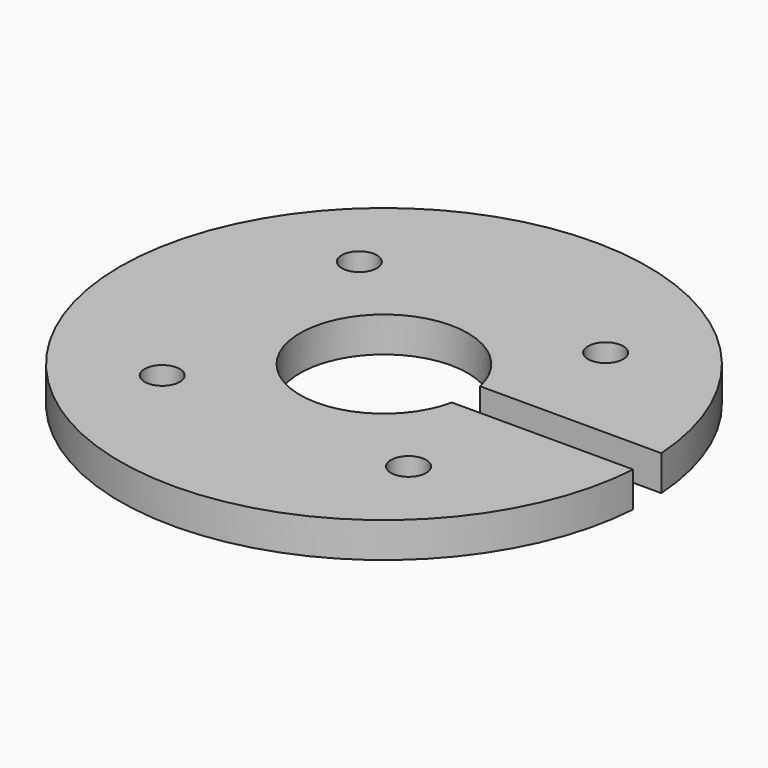
from build123d import *

# Parameters (mm, degrees)
SKETCH_R        = 45
SKETCH_R_2      = 14.3
PAD_DEPTH       = 6
SKETCH001_R     = 3
POCKET_DEPTH    = 10
SKETCH002_W     = 50
SKETCH002_H     = 6
POCKET001_DEPTH = 10


with BuildPart() as part:
    # Sketch → Pad (new body)
    with BuildSketch(Plane.XY):
        Circle(SKETCH_R)
        Circle(SKETCH_R_2, mode=Mode.SUBTRACT)
    extrude(amount=PAD_DEPTH)

    # Sketch001 → Pocket (cut)
    with BuildSketch(Plane.XY.offset(6)):
        with Locations((-21.001071, 21.001071)):
            Circle(SKETCH001_R)
        with Locations((21.001071, 21.001071)):
            Circle(SKETCH001_R)
        with Locations((-21.001071, -21.001071)):
            Circle(SKETCH001_R)
        with Locations((21.001071, -21.001071)):
            Circle(SKETCH001_R)
    extrude(amount=-POCKET_DEPTH, mode=Mode.SUBTRACT)

    # Sketch002 → Pocket001 (cut)
    with BuildSketch(Plane.XY.offset(6)):
        with Locations((25, 0)):
            Rectangle(SKETCH002_W, SKETCH002_H)
    extrude(amount=-POCKET001_DEPTH, mode=Mode.SUBTRACT)


solid = part.part
